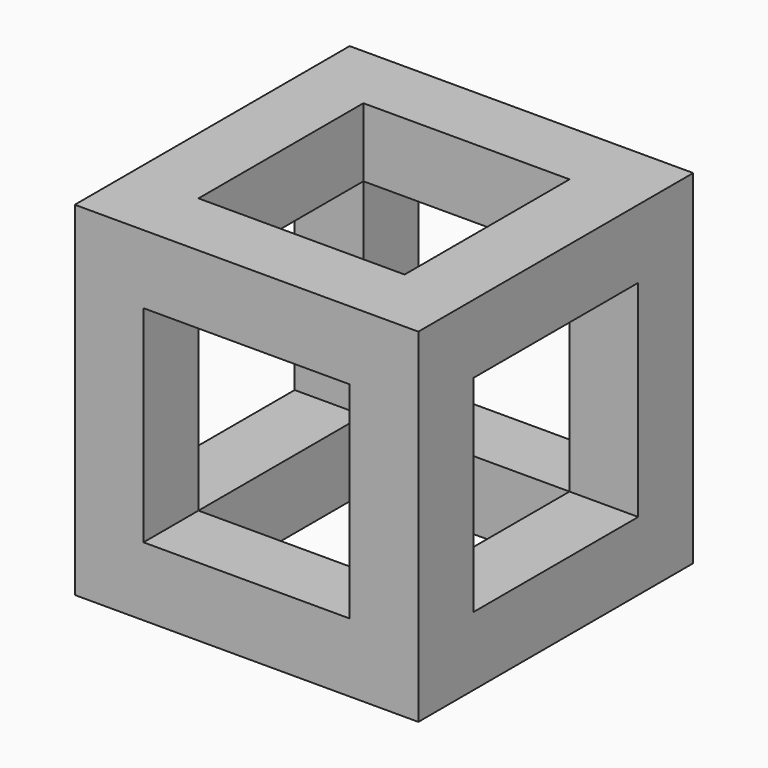
from build123d import *

# Parameters (mm, degrees)
F0_W     = 25
F0_H     = 25
F0_W_2   = 15
F0_H_2   = 15
F1_DEPTH = 25
F2_W     = 15
F2_H     = 15
F3_DEPTH = 25.001
F4_W     = 15
F4_H     = 15
F5_DEPTH = 25


with BuildPart() as f1:
    # F0 (on Top) → F1 (new body)
    with BuildSketch(Plane.XY):
        Rectangle(F0_W, F0_H)
        Rectangle(F0_W_2, F0_H_2, mode=Mode.SUBTRACT)
    extrude(amount=F1_DEPTH)

    # F2 (on face) → F3 (cut, through all)
    with BuildSketch(Plane(origin=(-12.5, 0, 0), x_dir=(0, -1, 0), z_dir=(-1, 0, 0))):
        with Locations((0, 12.5)):
            Rectangle(F2_W, F2_H)
    extrude(amount=-F3_DEPTH, mode=Mode.SUBTRACT)

    # F4 (on face) → F5 (cut)
    with BuildSketch(Plane.XZ.offset(12.5)):
        with Locations((0, 12.5)):
            Rectangle(F4_W, F4_H)
    extrude(amount=-F5_DEPTH, mode=Mode.SUBTRACT)


solid = f1.part
